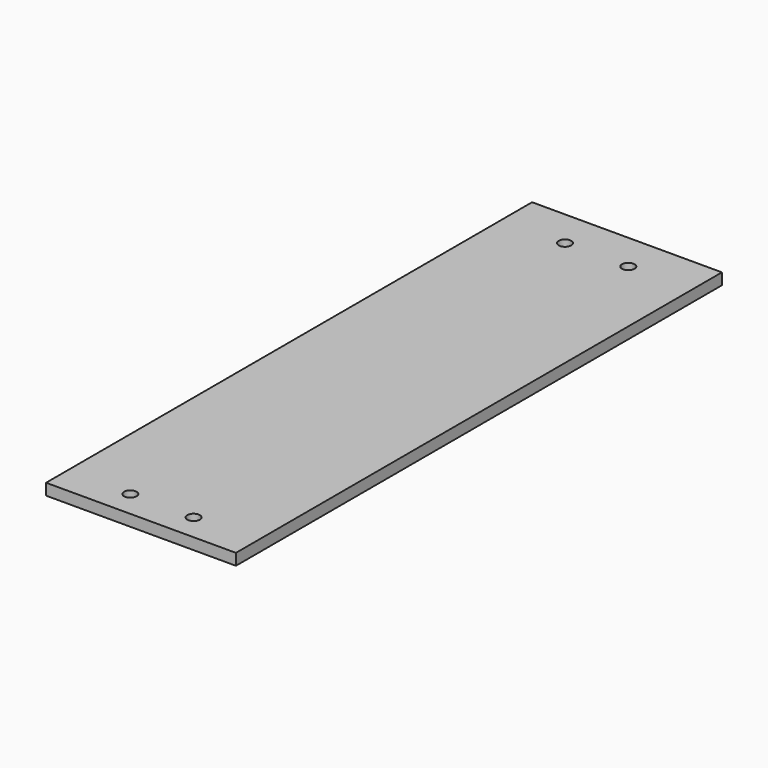
from build123d import *

# Parameters (mm, degrees)
SKETCH001_W          = 50
SKETCH001_H          = 16.9
PAD_DEPTH            = 3
SKETCH002_W          = 50
SKETCH002_H          = 50
PAD001_DEPTH         = 3
SKETCH003_W          = 50
SKETCH003_H          = 20
PAD002_DEPTH         = 3
SKETCH004_W          = 50
SKETCH004_H          = 53.1
PAD003_DEPTH         = 3
SKETCH005_W          = 50
SKETCH005_H          = 20
PAD004_DEPTH         = 3
SKETCH006_R          = 1.65
POCKET_DEPTH         = 3.001
SKETCH_R             = 1.65
POCKET001_DEPTH      = 0.001
POCKET001_DEPTH_BACK = 3.001


with BuildPart() as part:
    # Sketch001 → Pad (new body)
    with BuildSketch(Plane.XY):
        with Locations((25, 8.45)):
            Rectangle(SKETCH001_W, SKETCH001_H)
    extrude(amount=PAD_DEPTH)

    # Sketch002 → Pad001 (join)
    with BuildSketch(Plane(origin=(0, 16.9, 0), x_dir=(1, 0, 0), z_dir=(0, 0, 1))):
        with Locations((25, 25)):
            Rectangle(SKETCH002_W, SKETCH002_H)
    extrude(amount=PAD001_DEPTH)

    # Sketch003 → Pad002 (join)
    with BuildSketch(Plane(origin=(0, 66.9, 0), x_dir=(1, 0, 0), z_dir=(0, 0, 1))):
        with Locations((25, 10)):
            Rectangle(SKETCH003_W, SKETCH003_H)
    extrude(amount=PAD002_DEPTH)

    # Sketch004 → Pad003 (join)
    with BuildSketch(Plane(origin=(0, 86.9, 0), x_dir=(1, 0, 0), z_dir=(0, 0, 1))):
        with Locations((25, 26.55)):
            Rectangle(SKETCH004_W, SKETCH004_H)
    extrude(amount=PAD003_DEPTH)

    # Sketch005 → Pad004 (join)
    with BuildSketch(Plane(origin=(0, 140, 0), x_dir=(1, 0, 0), z_dir=(0, 0, 1))):
        with Locations((25, 10)):
            Rectangle(SKETCH005_W, SKETCH005_H)
    extrude(amount=PAD004_DEPTH)

    # Sketch006 → Pocket (cut, through all)
    with BuildSketch(Plane.XY):
        with Locations((16.666667, 6.9)):
            Circle(SKETCH006_R)
        with Locations((33.333333, 6.9)):
            Circle(SKETCH006_R)
    extrude(amount=POCKET_DEPTH, mode=Mode.SUBTRACT)

    # Sketch → Pocket001 (cut, two sides)
    with BuildSketch(Plane(origin=(0, 140, 0), x_dir=(1, 0, 0), z_dir=(0, 0, 1))) as pocket001_sk:
        with Locations((16.666667, 10)):
            Circle(SKETCH_R)
        with Locations((33.333333, 10)):
            Circle(SKETCH_R)
    extrude(amount=-POCKET001_DEPTH, mode=Mode.SUBTRACT)
    extrude(pocket001_sk.sketch, amount=POCKET001_DEPTH_BACK, mode=Mode.SUBTRACT)


solid = part.part
